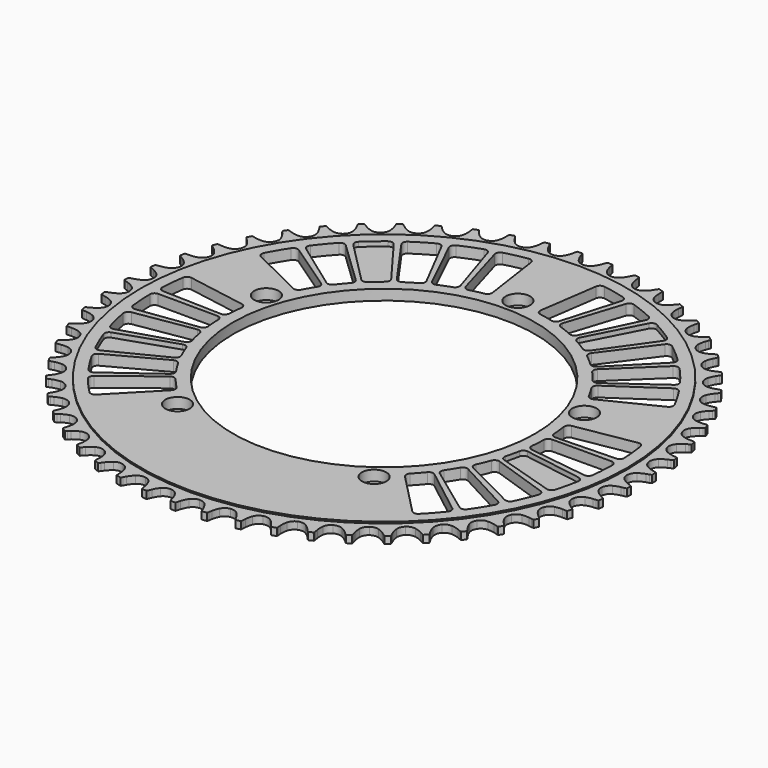
from build123d import *

# Parameters (mm, degrees)
F0_R     = 104.654542
F1_DEPTH = 1.58
F0_R_2   = 5.25
F0_R_3   = 64.999997
F2_DEPTH = 2.25
F4_DEPTH = 4.5
F5_DEPTH = 2
F6_R     = 2


with BuildPart() as f1:
    # F0 (on Top) → F1 (new body, symmetric)
    with BuildSketch(Plane.XY):
        with BuildLine():
            ThreePointArc((-3.244606, 108.80451), (-4.063278, 110.10593), (-4.680997, 111.513887))
            Line((-4.680997, 111.513887), (-5.067209, 112.628629))
            ThreePointArc((-5.067209, 112.628629), (-5.236912, 113.065922), (-5.4382, 113.489604))
            ThreePointArc((-5.4382, 113.489604), (-6.486421, 113.434521), (-7.534088, 113.369757))
            ThreePointArc((-7.534088, 113.369757), (-7.685768, 112.925891), (-7.804517, 112.472104))
            Line((-7.804517, 112.472104), (-8.061141, 111.320604))
            ThreePointArc((-8.061141, 111.320604), (-8.514337, 109.85141), (-9.179323, 108.465151))
            ThreePointArc((-9.179323, 108.465151), (-10.456264, 107.096888), (-12.214697, 106.45608))
            ThreePointArc((-12.214697, 106.45608), (-14.072573, 106.681955), (-15.626237, 107.725436))
            ThreePointArc((-15.626237, 107.725436), (-16.587923, 108.925052), (-17.36211, 110.253417))
            Line((-17.36211, 110.253417), (-17.872876, 111.316868))
            ThreePointArc((-17.872876, 111.316868), (-18.09132, 111.731965), (-18.339592, 112.129941))
            ThreePointArc((-18.339592, 112.129941), (-19.374701, 111.955729), (-20.408157, 111.771962))
            ThreePointArc((-20.408157, 111.771962), (-20.508251, 111.313699), (-20.574499, 110.849334))
            Line((-20.574499, 110.849334), (-20.698188, 109.676086))
            ThreePointArc((-20.698188, 109.676086), (-20.980956, 108.164808), (-21.483585, 106.711782))
            ThreePointArc((-21.483585, 106.711782), (-22.596232, 105.206878), (-24.270157, 104.369801))
            ThreePointArc((-24.270157, 104.369801), (-26.141671, 104.382421), (-27.804155, 105.241997))
            ThreePointArc((-27.804155, 105.241997), (-28.896319, 106.324169), (-29.816882, 107.555624))
            Line((-29.816882, 107.555624), (-30.445542, 108.553921))
            ThreePointArc((-30.445542, 108.553921), (-30.70988, 108.941412), (-31.0019, 109.308492))
            ThreePointArc((-31.0019, 109.308492), (-32.010403, 109.017422), (-33.016175, 108.717048))
            ThreePointArc((-33.016175, 108.717048), (-33.063379, 108.250362), (-33.07626, 107.781472))
            Line((-33.07626, 107.781472), (-33.065404, 106.601772))
            ThreePointArc((-33.065404, 106.601772), (-33.174055, 105.068112), (-33.507776, 103.567263))
            ThreePointArc((-33.507776, 103.567263), (-34.441624, 101.945335), (-36.009219, 100.922901))
            ThreePointArc((-36.009219, 100.922901), (-37.869972, 100.722103), (-39.619604, 101.386567))
            ThreePointArc((-39.619604, 101.386567), (-40.828007, 102.337188), (-41.882944, 103.45568))
            Line((-41.882944, 103.45568), (-42.621305, 104.375807))
            ThreePointArc((-42.621305, 104.375807), (-42.92809, 104.73064), (-43.26005, 105.062041))
            ThreePointArc((-43.26005, 105.062041), (-44.228801, 104.657907), (-45.193776, 104.244841))
            ThreePointArc((-45.193776, 104.244841), (-45.187474, 103.775817), (-45.146823, 103.308515))
            Line((-45.146823, 103.308515), (-45.001561, 102.137742))
            ThreePointArc((-45.001561, 102.137742), (-44.93468, 100.601693), (-45.095141, 99.072585))
            ThreePointArc((-45.095141, 99.072585), (-45.838017, 97.354779), (-47.278845, 96.160317))
            ThreePointArc((-47.278845, 96.160317), (-49.10458, 95.748718), (-50.91855, 96.209408))
            ThreePointArc((-50.91855, 96.209408), (-52.227439, 97.016085), (-53.402999, 98.007033))
            Line((-53.402999, 98.007033), (-54.241433, 98.836996))
            ThreePointArc((-54.241433, 98.836996), (-54.586667, 99.154545), (-54.95424, 99.445944))
            ThreePointArc((-54.95424, 99.445944), (-55.870608, 98.934016), (-56.782208, 98.413643))
            ThreePointArc((-56.782208, 98.413643), (-56.722482, 97.948394), (-56.628827, 97.488772))
            Line((-56.628827, 97.488772), (-56.351054, 96.342189))
            ThreePointArc((-56.351054, 96.342189), (-56.109513, 94.823777), (-56.094623, 93.286345))
            ThreePointArc((-56.094623, 93.286345), (-56.636841, 91.495055), (-57.932119, 90.144137))
            ThreePointArc((-57.932119, 90.144137), (-59.699035, 89.527102), (-61.553696, 89.778012))
            ThreePointArc((-61.553696, 89.778012), (-62.946007, 90.430229), (-64.226864, 91.280714))
            Line((-64.226864, 91.280714), (-65.154442, 92.009692))
            ThreePointArc((-65.154442, 92.009692), (-65.533623, 92.285818), (-65.932017, 92.533418))
            ThreePointArc((-65.932017, 92.533418), (-66.784057, 91.920368), (-67.630396, 91.299473))
            ThreePointArc((-67.630396, 91.299473), (-67.518025, 90.844065), (-67.372588, 90.398115))
            Line((-67.372588, 90.398115), (-66.965925, 89.290669))
            ThreePointArc((-66.965925, 89.290669), (-66.552872, 87.809688), (-66.362825, 86.283975))
            ThreePointArc((-66.362825, 86.283975), (-66.697318, 84.442552), (-67.830159, 82.95279))
            ThreePointArc((-67.830159, 82.95279), (-69.515221, 82.138364), (-71.386395, 82.176223))
            ThreePointArc((-71.386395, 82.176223), (-72.843978, 82.665477), (-74.213434, 83.364411))
            Line((-74.213434, 83.364411), (-75.218062, 83.982902))
            ThreePointArc((-75.218062, 83.982902), (-75.626248, 84.214005), (-76.050269, 84.414577))
            ThreePointArc((-76.050269, 84.414577), (-76.826873, 83.708398), (-77.596919, 82.995075))
            ThreePointArc((-77.596919, 82.995075), (-77.433368, 82.555445), (-77.238044, 82.12898))
            Line((-77.238044, 82.12898), (-76.707793, 81.075109))
            ThreePointArc((-76.707793, 81.075109), (-76.128613, 79.650866), (-75.765887, 78.156761))
            ThreePointArc((-75.765887, 78.156761), (-75.888293, 76.289212), (-76.84393, 74.680026))
            ThreePointArc((-76.84393, 74.680026), (-78.425171, 73.678826), (-80.288463, 73.503141))
            ThreePointArc((-80.288463, 73.503141), (-81.792316, 73.823053), (-83.232518, 74.361326))
            Line((-83.232518, 74.361326), (-84.3011, 74.861267))
            ThreePointArc((-84.3011, 74.861267), (-84.732969, 75.044333), (-85.17709, 75.195263))
            ThreePointArc((-85.17709, 75.195263), (-85.868133, 74.405161), (-86.551848, 73.608709))
            ThreePointArc((-86.551848, 73.608709), (-86.339248, 73.190588), (-86.096584, 72.789168))
            Line((-86.096584, 72.789168), (-85.449657, 71.802611))
            ThreePointArc((-85.449657, 71.802611), (-84.711901, 70.453672), (-84.181224, 69.010654))
            ThreePointArc((-84.181224, 69.010654), (-84.089947, 67.141325), (-84.855922, 65.433694))
            ThreePointArc((-84.855922, 65.433694), (-86.312728, 64.258772), (-88.143848, 63.871833))
            ThreePointArc((-88.143848, 63.871833), (-89.674366, 64.018234), (-91.166538, 64.388827))
            Line((-91.166538, 64.388827), (-92.285145, 64.7637))
            ThreePointArc((-92.285145, 64.7637), (-92.735066, 64.896343), (-93.193498, 64.995664))
            ThreePointArc((-93.193498, 64.995664), (-93.789971, 64.131939), (-94.37844, 63.26274))
            ThreePointArc((-94.37844, 63.26274), (-94.119565, 62.871579), (-93.832724, 62.500438))
            Line((-93.832724, 62.500438), (-93.077554, 61.594055))
            ThreePointArc((-93.077554, 61.594055), (-92.19084, 60.338007), (-91.49913, 58.964888))
            ThreePointArc((-91.49913, 58.964888), (-91.195361, 57.118149), (-91.761688, 55.334333))
            ThreePointArc((-91.761688, 55.334333), (-93.075067, 54.001007), (-94.850143, 53.407858))
            ThreePointArc((-94.850143, 53.407858), (-96.387373, 53.378839), (-97.912064, 53.576921))
            Line((-97.912064, 53.576921), (-99.066111, 53.821839))
            ThreePointArc((-99.066111, 53.821839), (-99.52822, 53.902331), (-99.994985, 53.948747))
            ThreePointArc((-99.994985, 53.948747), (-100.489114, 53.022659), (-100.974666, 52.092046))
            ThreePointArc((-100.974666, 52.092046), (-100.672888, 51.732944), (-100.34561, 51.396919))
            Line((-100.34561, 51.396919), (-99.492043, 50.582527))
            ThreePointArc((-99.492043, 50.582527), (-98.46793, 49.435744), (-97.624206, 48.150425))
            ThreePointArc((-97.624206, 48.150425), (-97.111904, 46.35035), (-97.4712, 44.513605))
            ThreePointArc((-97.4712, 44.513605), (-98.62403, 43.039256), (-100.319922, 42.247629))
            ThreePointArc((-100.319922, 42.247629), (-101.843824, 42.043569), (-103.381156, 42.066559))
            Line((-103.381156, 42.066559), (-104.5556, 42.178328))
            ThreePointArc((-104.5556, 42.178328), (-105.023872, 42.205619), (-105.492885, 42.198525))
            ThreePointArc((-105.492885, 42.198525), (-105.878227, 41.222147), (-106.254532, 40.242252))
            ThreePointArc((-106.254532, 40.242252), (-105.913787, 39.91989), (-105.550338, 39.623363))
            Line((-105.550338, 39.623363), (-104.609502, 38.911579))
            ThreePointArc((-104.609502, 38.911579), (-103.461341, 37.889011), (-102.4766, 36.708247))
            ThreePointArc((-102.4766, 36.708247), (-101.762445, 34.978303), (-101.910025, 33.112574))
            ThreePointArc((-101.910025, 33.112574), (-102.887278, 31.516423), (-104.481877, 30.536639))
            ThreePointArc((-104.481877, 30.536639), (-105.972585, 30.160196), (-107.502517, 30.007794))
            Line((-107.502517, 30.007794), (-108.682046, 29.984959))
            ThreePointArc((-108.682046, 29.984959), (-109.150376, 29.958692), (-109.615524, 29.898181))
            ThreePointArc((-109.615524, 29.898181), (-109.887055, 28.884242), (-110.149207, 27.867838))
            ThreePointArc((-110.149207, 27.867838), (-109.773937, 27.58642), (-109.379056, 27.333255))
            Line((-109.379056, 27.333255), (-108.363215, 26.733358))
            ThreePointArc((-108.363215, 26.733358), (-107.105974, 25.848336), (-105.993055, 24.78752))
            ThreePointArc((-105.993055, 24.78752), (-105.086356, 23.150261), (-105.020298, 21.27987))
            ThreePointArc((-105.020298, 21.27987), (-105.809233, 19.582724), (-107.281751, 18.427557))
            ThreePointArc((-107.281751, 18.427557), (-108.719831, 17.88364), (-110.222418, 17.557832))
            Line((-110.222418, 17.557832), (-111.391655, 17.400689))
            ThreePointArc((-111.391655, 17.400689), (-111.853939, 17.321208), (-112.309157, 17.208069))
            ThreePointArc((-112.309157, 17.208069), (-112.463338, 16.169787), (-112.60792, 15.130125))
            ThreePointArc((-112.60792, 15.130125), (-112.203017, 14.893318), (-111.781851, 14.686817))
            Line((-111.781851, 14.686817), (-110.704248, 14.206627))
            ThreePointArc((-110.704248, 14.206627), (-109.354317, 13.470689), (-108.127729, 12.543651))
            ThreePointArc((-108.127729, 12.543651), (-107.040306, 11.020419), (-106.76147, 9.169751))
            ThreePointArc((-106.76147, 9.169751), (-107.351802, 7.393735), (-108.683043, 6.078243))
            ThreePointArc((-108.683043, 6.078243), (-110.049747, 5.373943), (-111.505401, 4.878976))
            Line((-111.505401, 4.878976), (-112.649104, 4.589575))
            ThreePointArc((-112.649104, 4.589575), (-113.099314, 4.457916), (-113.538668, 4.293623))
            ThreePointArc((-113.538668, 4.293623), (-113.573489, 3.244533), (-113.598616, 2.195167))
            ThreePointArc((-113.598616, 2.195167), (-113.169358, 2.00606), (-112.727398, 1.848914))
            Line((-112.727398, 1.848914), (-111.602082, 1.494692))
            ThreePointArc((-111.602082, 1.494692), (-110.17706, 0.917431), (-108.852792, 0.136256))
            ThreePointArc((-108.852792, 0.136256), (-107.598822, -1.25309), (-107.110843, -3.059911))
            ThreePointArc((-107.110843, -3.059911), (-107.494877, -4.891642), (-108.667486, -6.35031))
            ThreePointArc((-108.667486, -6.35031), (-109.944997, -7.205812), (-111.33474, -7.863484))
            Line((-111.33474, -7.863484), (-112.437999, -8.281371))
            ThreePointArc((-112.437999, -8.281371), (-112.870267, -8.463492), (-113.288029, -8.676797))
            ThreePointArc((-113.288029, -8.676797), (-113.203035, -9.723017), (-113.10838, -10.768408))
            ThreePointArc((-113.10838, -10.768408), (-112.660364, -10.907351), (-112.203371, -11.013093))
            Line((-112.203371, -11.013093), (-111.045012, -11.23673))
            ThreePointArc((-111.045012, -11.23673), (-109.563476, -11.647788), (-108.158793, -12.272915))
            ThreePointArc((-108.158793, -12.272915), (-106.754623, -13.510264), (-106.063863, -15.249681))
            ThreePointArc((-106.063863, -15.249681), (-106.236592, -17.11325), (-107.235282, -18.696077))
            ThreePointArc((-107.235282, -18.696077), (-108.406946, -19.691628), (-109.712661, -20.503432))
            Line((-109.712661, -20.503432), (-110.761093, -21.044357))
            ThreePointArc((-110.761093, -21.044357), (-111.169784, -21.274566), (-111.560507, -21.534101))
            ThreePointArc((-111.560507, -21.534101), (-111.356808, -22.563814), (-111.143604, -23.591601))
            ThreePointArc((-111.143604, -23.591601), (-110.68267, -23.678568), (-110.216602, -23.731527))
            Line((-110.216602, -23.731527), (-109.0403, -23.821663))
            ThreePointArc((-109.0403, -23.821663), (-107.521564, -24.061159), (-106.054778, -24.522091))
            ThreePointArc((-106.054778, -24.522091), (-104.518714, -25.59131), (-103.634178, -27.240649))
            ThreePointArc((-103.634178, -27.240649), (-103.59335, -29.11176), (-104.405101, -30.798112))
            ThreePointArc((-104.405101, -30.798112), (-105.455644, -31.920733), (-106.66031, -32.876086))
            Line((-106.66031, -32.876086), (-107.640247, -33.532998))
            ThreePointArc((-107.640247, -33.532998), (-108.020032, -33.808293), (-108.378624, -34.110676))
            ThreePointArc((-108.378624, -34.110676), (-108.058874, -35.110456), (-107.729901, -36.10724))
            ThreePointArc((-107.729901, -36.10724), (-107.262057, -36.141098), (-106.792991, -36.140585))
            Line((-106.792991, -36.140585), (-105.614082, -36.096045))
            ThreePointArc((-105.614082, -36.096045), (-104.077945, -36.160857), (-102.568177, -36.451583))
            ThreePointArc((-102.568177, -36.451583), (-100.920244, -37.338735), (-99.853463, -38.876493))
            ThreePointArc((-99.853463, -38.876493), (-99.599611, -40.730754), (-100.213841, -42.498647))
            ThreePointArc((-100.213841, -42.498647), (-101.129567, -43.733703), (-102.217479, -44.82015))
            Line((-102.217479, -44.82015), (-103.116146, -45.584484))
            ThreePointArc((-103.116146, -45.584484), (-103.462074, -45.901277), (-103.783859, -46.242565))
            ThreePointArc((-103.783859, -46.242565), (-103.352227, -47.19938), (-102.911773, -48.152167))
            ThreePointArc((-102.911773, -48.152167), (-102.44312, -48.132474), (-101.97717, -48.078495))
            Line((-101.97717, -48.078495), (-100.811022, -47.89986))
            ThreePointArc((-100.811022, -47.89986), (-99.27751, -47.789143), (-97.744444, -47.905873))
            ThreePointArc((-97.744444, -47.905873), (-96.006124, -48.599392), (-94.771006, -50.005523))
            ThreePointArc((-94.771006, -50.005523), (-94.307438, -51.81876), (-94.71614, -53.645146))
            ThreePointArc((-94.71614, -53.645146), (-95.485112, -54.976537), (-96.442086, -56.179915))
            Line((-96.442086, -56.179915), (-97.247768, -57.041707))
            ThreePointArc((-97.247768, -57.041707), (-97.555329, -57.395868), (-97.836113, -57.771613))
            ThreePointArc((-97.836113, -57.771613), (-97.298226, -58.672988), (-96.752034, -59.569357))
            ThreePointArc((-96.752034, -59.569357), (-96.28868, -59.496369), (-95.83192, -59.389628))
            Line((-95.83192, -59.389628), (-94.693737, -59.079226))
            ThreePointArc((-94.693737, -59.079226), (-93.182841, -58.794424), (-91.646461, -58.735637))
            ThreePointArc((-91.646461, -58.735637), (-89.840418, -59.226482), (-88.453063, -60.482655))
            ThreePointArc((-88.453063, -60.482655), (-87.785824, -62.23123), (-87.98367, -64.092299))
            ThreePointArc((-87.98367, -64.092299), (-88.595861, -65.502668), (-89.409423, -66.807289))
            Line((-89.409423, -66.807289), (-90.111617, -67.755305))
            ThreePointArc((-90.111617, -67.755305), (-90.376802, -68.142216), (-90.612924, -68.547518))
            ThreePointArc((-90.612924, -68.547518), (-89.975793, -69.381704), (-89.330984, -70.209969))
            ThreePointArc((-89.330984, -70.209969), (-88.87897, -70.084639), (-88.437355, -69.926526))
            Line((-88.437355, -69.926526), (-87.341974, -69.488405))
            ThreePointArc((-87.341974, -69.488405), (-85.873391, -69.03323), (-84.353728, -68.799692))
            ThreePointArc((-84.353728, -68.799692), (-82.503504, -69.081464), (-80.981999, -70.171302))
            ThreePointArc((-80.981999, -70.171302), (-80.119787, -71.83242), (-80.104197, -73.703911))
            ThreePointArc((-80.104197, -73.703911), (-80.551629, -75.174871), (-81.211172, -76.563727))
            Line((-81.211172, -76.563727), (-81.800723, -77.585608))
            ThreePointArc((-81.800723, -77.585608), (-82.020074, -78.000226), (-82.208457, -78.429803))
            ThreePointArc((-82.208457, -78.429803), (-81.480389, -79.185924), (-80.745367, -79.935286))
            ThreePointArc((-80.745367, -79.935286), (-80.310587, -79.759248), (-79.889873, -79.551825))
            Line((-79.889873, -79.551825), (-78.851574, -78.991696))
            ThreePointArc((-78.851574, -78.991696), (-77.444451, -78.372082), (-75.961314, -77.966837))
            ThreePointArc((-75.961314, -77.966837), (-74.091031, -78.035863), (-72.455212, -78.945159))
            ThreePointArc((-72.455212, -78.945159), (-71.409266, -80.497165), (-71.180444, -82.35468))
            ThreePointArc((-71.180444, -82.35468), (-71.457282, -83.867055), (-71.954209, -85.322041))
            Line((-71.954209, -85.322041), (-72.423431, -86.404464))
            ThreePointArc((-72.423431, -86.404464), (-72.59409, -86.841384), (-72.732277, -87.289634))
            ThreePointArc((-72.732277, -87.289634), (-71.922763, -87.957833), (-71.107112, -88.618525))
            ThreePointArc((-71.107112, -88.618525), (-70.695232, -88.394073), (-70.300905, -88.140045))
            Line((-70.300905, -88.140045), (-69.333224, -87.465209))
            ThreePointArc((-69.333224, -87.465209), (-68.005903, -86.689234), (-66.578628, -86.117566))
            ThreePointArc((-66.578628, -86.117566), (-64.712668, -85.972946), (-62.983859, -86.689845))
            ThreePointArc((-62.983859, -86.689845), (-61.767816, -88.112506), (-61.328745, -89.93183))
            ThreePointArc((-61.328745, -89.93183), (-61.431381, -91.465904), (-61.759212, -92.968051))
            Line((-61.759212, -92.968051), (-62.101989, -94.096906))
            ThreePointArc((-62.101989, -94.096906), (-62.221731, -94.550432), (-62.30792, -95.011512))
            ThreePointArc((-62.30792, -95.011512), (-61.427514, -95.583078), (-60.541866, -96.146486))
            ThreePointArc((-60.541866, -96.146486), (-60.158257, -95.876546), (-59.795458, -95.579224))
            Line((-59.795458, -95.579224), (-58.911009, -94.79848))
            ThreePointArc((-58.911009, -94.79848), (-57.680795, -93.876259), (-56.327988, -93.145621))
            ThreePointArc((-56.327988, -93.145621), (-54.490676, -92.78924), (-52.691416, -93.304397))
            ThreePointArc((-52.691416, -93.304397), (-51.321129, -94.579166), (-50.677532, -96.33658))
            ThreePointArc((-50.677532, -96.33658), (-50.604627, -97.872355), (-50.75909, -99.40208))
            Line((-50.75909, -99.40208), (-50.970953, -100.562651))
            ThreePointArc((-50.970953, -100.562651), (-51.038216, -101.02687), (-51.071284, -101.49477))
            ThreePointArc((-51.071284, -101.49477), (-50.131464, -101.962251), (-49.187365, -102.42103))
            ThreePointArc((-49.187365, -102.42103), (-48.837027, -102.109122), (-48.510484, -101.772382))
            Line((-48.510484, -101.772382), (-47.7208, -100.895907))
            ThreePointArc((-47.7208, -100.895907), (-46.603729, -99.839464), (-45.343027, -98.95938))
            ThreePointArc((-45.343027, -98.95938), (-43.558315, -98.395884), (-41.71206, -98.702583))
            ThreePointArc((-41.71206, -98.702583), (-40.205392, -99.812841), (-39.36566, -101.485436))
            ThreePointArc((-39.36566, -101.485436), (-39.118165, -103.00289), (-39.097246, -104.540251))
            Line((-39.097246, -104.540251), (-39.175433, -105.717407))
            ThreePointArc((-39.175433, -105.717407), (-39.18934, -106.186268), (-39.168856, -106.654887))
            ThreePointArc((-39.168856, -106.654887), (-38.181873, -107.01219), (-37.191631, -107.36036))
            ThreePointArc((-37.191631, -107.36036), (-36.879131, -107.010549), (-36.593103, -106.638781))
            Line((-36.593103, -106.638781), (-35.908476, -105.678002))
            ThreePointArc((-35.908476, -105.678002), (-34.919112, -104.501109), (-33.76695, -103.483052))
            ThreePointArc((-33.76695, -103.483052), (-32.058105, -102.719787), (-30.188923, -102.81403))
            ThreePointArc((-30.188923, -102.81403), (-28.565516, -103.745304), (-27.540596, -105.311274))
            ThreePointArc((-27.540596, -105.311274), (-27.121738, -106.790624), (-26.925709, -108.31558))
            Line((-26.925709, -108.31558), (-26.8692, -109.493976))
            ThreePointArc((-26.8692, -109.493976), (-26.829571, -109.961366), (-26.755802, -110.424596))
            ThreePointArc((-26.755802, -110.424596), (-25.734523, -110.667062), (-24.711047, -110.900083))
            ThreePointArc((-24.711047, -110.900083), (-24.44046, -110.51693), (-24.198675, -110.11498))
            Line((-24.198675, -110.11498), (-23.628031, -109.082423))
            ThreePointArc((-23.628031, -109.082423), (-22.779272, -107.800422), (-21.750669, -106.657664))
            ThreePointArc((-21.750669, -106.657664), (-20.139968, -105.704581), (-18.272227, -105.585139))
            ThreePointArc((-18.272227, -105.585139), (-16.553245, -106.325288), (-15.356498, -107.764219))
            ThreePointArc((-15.356498, -107.764219), (-14.771738, -109.18618), (-14.403155, -110.67885))
            Line((-14.403155, -110.67885), (-14.212687, -111.843124))
            ThreePointArc((-14.212687, -111.843124), (-14.120038, -112.302949), (-13.993945, -112.754751))
            ThreePointArc((-13.993945, -112.754751), (-12.951684, -112.879219), (-11.908317, -112.994054))
            ThreePointArc((-11.908317, -112.994054), (-11.68317, -112.582554), (-11.488779, -112.155663))
            Line((-11.488779, -112.155663), (-11.039558, -111.064787))
            ThreePointArc((-11.039558, -111.064787), (-10.342468, -109.694391), (-9.450835, -108.441831))
            ThreePointArc((-9.450835, -108.441831), (-7.959277, -107.311354), (-6.117325, -106.979784))
            ThreePointArc((-6.117325, -106.979784), (-4.325177, -107.519159), (-2.972206, -108.812292))
            ThreePointArc((-2.972206, -108.812292), (-2.229165, -110.158327), (-1.692833, -111.599252))
            Line((-1.692833, -111.599252), (-1.37089, -112.734225))
            ThreePointArc((-1.37089, -112.734225), (-1.226428, -113.180492), (-1.049656, -113.614975))
            ThreePointArc((-1.049656, -113.614975), (0, -113.619824), (1.049656, -113.614975))
            ThreePointArc((1.049656, -113.614975), (1.226428, -113.180492), (1.37089, -112.734225))
            Line((1.37089, -112.734225), (1.692833, -111.599252))
            ThreePointArc((1.692833, -111.599252), (2.229165, -110.158327), (2.972206, -108.812292))
            ThreePointArc((2.972206, -108.812292), (4.325177, -107.519159), (6.117325, -106.979784))
            ThreePointArc((6.117325, -106.979784), (7.959277, -107.311354), (9.450835, -108.441831))
            ThreePointArc((9.450835, -108.441831), (10.342468, -109.694391), (11.039558, -111.064787))
            Line((11.039558, -111.064787), (11.488779, -112.155663))
            ThreePointArc((11.488779, -112.155663), (11.68317, -112.582554), (11.908317, -112.994054))
            ThreePointArc((11.908317, -112.994054), (12.951684, -112.879219), (13.993945, -112.754751))
            ThreePointArc((13.993945, -112.754751), (14.120038, -112.302949), (14.212687, -111.843124))
            Line((14.212687, -111.843124), (14.403155, -110.67885))
            ThreePointArc((14.403155, -110.67885), (14.771738, -109.18618), (15.356498, -107.764219))
            ThreePointArc((15.356498, -107.764219), (16.553245, -106.325288), (18.272227, -105.585139))
            ThreePointArc((18.272227, -105.585139), (20.139968, -105.704581), (21.750669, -106.657664))
            ThreePointArc((21.750669, -106.657664), (22.779272, -107.800422), (23.628031, -109.082423))
            Line((23.628031, -109.082423), (24.198675, -110.11498))
            ThreePointArc((24.198675, -110.11498), (24.44046, -110.51693), (24.711047, -110.900083))
            ThreePointArc((24.711047, -110.900083), (25.734523, -110.667062), (26.755802, -110.424596))
            ThreePointArc((26.755802, -110.424596), (26.829571, -109.961366), (26.8692, -109.493976))
            Line((26.8692, -109.493976), (26.925709, -108.31558))
            ThreePointArc((26.925709, -108.31558), (27.121738, -106.790624), (27.540596, -105.311274))
            ThreePointArc((27.540596, -105.311274), (28.565516, -103.745304), (30.188923, -102.81403))
            ThreePointArc((30.188923, -102.81403), (32.058105, -102.719787), (33.76695, -103.483052))
            ThreePointArc((33.76695, -103.483052), (34.919112, -104.501109), (35.908476, -105.678002))
            Line((35.908476, -105.678002), (36.593103, -106.638781))
            ThreePointArc((36.593103, -106.638781), (36.879131, -107.010549), (37.191631, -107.36036))
            ThreePointArc((37.191631, -107.36036), (38.181873, -107.01219), (39.168856, -106.654887))
            ThreePointArc((39.168856, -106.654887), (39.18934, -106.186268), (39.175433, -105.717407))
            Line((39.175433, -105.717407), (39.097246, -104.540251))
            ThreePointArc((39.097246, -104.540251), (39.118165, -103.00289), (39.36566, -101.485436))
            ThreePointArc((39.36566, -101.485436), (40.205392, -99.812841), (41.71206, -98.702583))
            ThreePointArc((41.71206, -98.702583), (43.558315, -98.395884), (45.343027, -98.95938))
            ThreePointArc((45.343027, -98.95938), (46.603729, -99.839464), (47.7208, -100.895907))
            Line((47.7208, -100.895907), (48.510484, -101.772382))
            ThreePointArc((48.510484, -101.772382), (48.837027, -102.109122), (49.187365, -102.42103))
            ThreePointArc((49.187365, -102.42103), (50.131464, -101.962251), (51.071284, -101.49477))
            ThreePointArc((51.071284, -101.49477), (51.038216, -101.02687), (50.970953, -100.562651))
            Line((50.970953, -100.562651), (50.75909, -99.40208))
            ThreePointArc((50.75909, -99.40208), (50.604627, -97.872355), (50.677532, -96.33658))
            ThreePointArc((50.677532, -96.33658), (51.321129, -94.579166), (52.691416, -93.304397))
            ThreePointArc((52.691416, -93.304397), (54.490676, -92.78924), (56.327988, -93.145621))
            ThreePointArc((56.327988, -93.145621), (57.680795, -93.876259), (58.911009, -94.79848))
            Line((58.911009, -94.79848), (59.795458, -95.579224))
            ThreePointArc((59.795458, -95.579224), (60.158257, -95.876546), (60.541866, -96.146486))
            ThreePointArc((60.541866, -96.146486), (61.427514, -95.583078), (62.30792, -95.011512))
            ThreePointArc((62.30792, -95.011512), (62.221731, -94.550432), (62.101989, -94.096906))
            Line((62.101989, -94.096906), (61.759212, -92.968051))
            ThreePointArc((61.759212, -92.968051), (61.431381, -91.465904), (61.328745, -89.93183))
            ThreePointArc((61.328745, -89.93183), (61.767816, -88.112506), (62.983859, -86.689845))
            ThreePointArc((62.983859, -86.689845), (64.712668, -85.972946), (66.578628, -86.117566))
            ThreePointArc((66.578628, -86.117566), (68.005903, -86.689234), (69.333224, -87.465209))
            Line((69.333224, -87.465209), (70.300905, -88.140045))
            ThreePointArc((70.300905, -88.140045), (70.695232, -88.394073), (71.107112, -88.618525))
            ThreePointArc((71.107112, -88.618525), (71.922763, -87.957833), (72.732277, -87.289634))
            ThreePointArc((72.732277, -87.289634), (72.59409, -86.841384), (72.423431, -86.404464))
            Line((72.423431, -86.404464), (71.954209, -85.322041))
            ThreePointArc((71.954209, -85.322041), (71.457282, -83.867055), (71.180444, -82.35468))
            ThreePointArc((71.180444, -82.35468), (71.409266, -80.497165), (72.455212, -78.945159))
            ThreePointArc((72.455212, -78.945159), (74.091031, -78.035863), (75.961314, -77.966837))
            ThreePointArc((75.961314, -77.966837), (77.444451, -78.372082), (78.851574, -78.991696))
            Line((78.851574, -78.991696), (79.889873, -79.551825))
            ThreePointArc((79.889873, -79.551825), (80.310587, -79.759248), (80.745367, -79.935286))
            ThreePointArc((80.745367, -79.935286), (81.480389, -79.185924), (82.208457, -78.429803))
            ThreePointArc((82.208457, -78.429803), (82.020074, -78.000226), (81.800723, -77.585608))
            Line((81.800723, -77.585608), (81.211172, -76.563727))
            ThreePointArc((81.211172, -76.563727), (80.551629, -75.174871), (80.104197, -73.703911))
            ThreePointArc((80.104197, -73.703911), (80.119787, -71.83242), (80.981999, -70.171302))
            ThreePointArc((80.981999, -70.171302), (82.503504, -69.081464), (84.353728, -68.799692))
            ThreePointArc((84.353728, -68.799692), (85.873391, -69.03323), (87.341974, -69.488405))
            Line((87.341974, -69.488405), (88.437355, -69.926526))
            ThreePointArc((88.437355, -69.926526), (88.87897, -70.084639), (89.330984, -70.209969))
            ThreePointArc((89.330984, -70.209969), (89.975793, -69.381704), (90.612924, -68.547518))
            ThreePointArc((90.612924, -68.547518), (90.376802, -68.142216), (90.111617, -67.755305))
            Line((90.111617, -67.755305), (89.409423, -66.807289))
            ThreePointArc((89.409423, -66.807289), (88.595861, -65.502668), (87.98367, -64.092299))
            ThreePointArc((87.98367, -64.092299), (87.785824, -62.23123), (88.453063, -60.482655))
            ThreePointArc((88.453063, -60.482655), (89.840418, -59.226482), (91.646461, -58.735637))
            ThreePointArc((91.646461, -58.735637), (93.182841, -58.794424), (94.693737, -59.079226))
            Line((94.693737, -59.079226), (95.83192, -59.389628))
            ThreePointArc((95.83192, -59.389628), (96.28868, -59.496369), (96.752034, -59.569357))
            ThreePointArc((96.752034, -59.569357), (97.298226, -58.672988), (97.836113, -57.771613))
            ThreePointArc((97.836113, -57.771613), (97.555329, -57.395868), (97.247768, -57.041707))
            Line((97.247768, -57.041707), (96.442086, -56.179915))
            ThreePointArc((96.442086, -56.179915), (95.485112, -54.976537), (94.71614, -53.645146))
            ThreePointArc((94.71614, -53.645146), (94.307438, -51.81876), (94.771006, -50.005523))
            ThreePointArc((94.771006, -50.005523), (96.006124, -48.599392), (97.744444, -47.905873))
            ThreePointArc((97.744444, -47.905873), (99.27751, -47.789143), (100.811022, -47.89986))
            Line((100.811022, -47.89986), (101.97717, -48.078495))
            ThreePointArc((101.97717, -48.078495), (102.44312, -48.132474), (102.911773, -48.152167))
            ThreePointArc((102.911773, -48.152167), (103.352227, -47.19938), (103.783859, -46.242565))
            ThreePointArc((103.783859, -46.242565), (103.462074, -45.901277), (103.116146, -45.584484))
            Line((103.116146, -45.584484), (102.217479, -44.82015))
            ThreePointArc((102.217479, -44.82015), (101.129567, -43.733703), (100.213841, -42.498647))
            ThreePointArc((100.213841, -42.498647), (99.599611, -40.730754), (99.853463, -38.876493))
            ThreePointArc((99.853463, -38.876493), (100.920244, -37.338735), (102.568177, -36.451583))
            ThreePointArc((102.568177, -36.451583), (104.077945, -36.160857), (105.614082, -36.096045))
            Line((105.614082, -36.096045), (106.792991, -36.140585))
            ThreePointArc((106.792991, -36.140585), (107.262057, -36.141098), (107.729901, -36.10724))
            ThreePointArc((107.729901, -36.10724), (108.058874, -35.110456), (108.378624, -34.110676))
            ThreePointArc((108.378624, -34.110676), (108.020032, -33.808293), (107.640247, -33.532998))
            Line((107.640247, -33.532998), (106.66031, -32.876086))
            ThreePointArc((106.66031, -32.876086), (105.455644, -31.920733), (104.405101, -30.798112))
            ThreePointArc((104.405101, -30.798112), (103.59335, -29.11176), (103.634178, -27.240649))
            ThreePointArc((103.634178, -27.240649), (104.518714, -25.59131), (106.054778, -24.522091))
            ThreePointArc((106.054778, -24.522091), (107.521564, -24.061159), (109.0403, -23.821663))
            Line((109.0403, -23.821663), (110.216602, -23.731527))
            ThreePointArc((110.216602, -23.731527), (110.68267, -23.678568), (111.143604, -23.591601))
            ThreePointArc((111.143604, -23.591601), (111.356808, -22.563814), (111.560507, -21.534101))
            ThreePointArc((111.560507, -21.534101), (111.169784, -21.274566), (110.761093, -21.044357))
            Line((110.761093, -21.044357), (109.712661, -20.503432))
            ThreePointArc((109.712661, -20.503432), (108.406946, -19.691628), (107.235282, -18.696077))
            ThreePointArc((107.235282, -18.696077), (106.236592, -17.11325), (106.063863, -15.249681))
            ThreePointArc((106.063863, -15.249681), (106.754623, -13.510264), (108.158793, -12.272915))
            ThreePointArc((108.158793, -12.272915), (109.563476, -11.647788), (111.045012, -11.23673))
            Line((111.045012, -11.23673), (112.203371, -11.013093))
            ThreePointArc((112.203371, -11.013093), (112.660364, -10.907351), (113.10838, -10.768408))
            ThreePointArc((113.10838, -10.768408), (113.203035, -9.723017), (113.288029, -8.676797))
            ThreePointArc((113.288029, -8.676797), (112.870267, -8.463492), (112.437999, -8.281371))
            Line((112.437999, -8.281371), (111.33474, -7.863484))
            ThreePointArc((111.33474, -7.863484), (109.944997, -7.205812), (108.667486, -6.35031))
            ThreePointArc((108.667486, -6.35031), (107.494877, -4.891642), (107.110843, -3.059911))
            ThreePointArc((107.110843, -3.059911), (107.598822, -1.25309), (108.852792, 0.136256))
            ThreePointArc((108.852792, 0.136256), (110.17706, 0.917431), (111.602082, 1.494692))
            Line((111.602082, 1.494692), (112.727398, 1.848914))
            ThreePointArc((112.727398, 1.848914), (113.169358, 2.00606), (113.598616, 2.195167))
            ThreePointArc((113.598616, 2.195167), (113.573489, 3.244533), (113.538668, 4.293623))
            ThreePointArc((113.538668, 4.293623), (113.099314, 4.457916), (112.649104, 4.589575))
            Line((112.649104, 4.589575), (111.505401, 4.878976))
            ThreePointArc((111.505401, 4.878976), (110.049747, 5.373943), (108.683043, 6.078243))
            ThreePointArc((108.683043, 6.078243), (107.351802, 7.393735), (106.76147, 9.169751))
            ThreePointArc((106.76147, 9.169751), (107.040306, 11.020419), (108.127729, 12.543651))
            ThreePointArc((108.127729, 12.543651), (109.354317, 13.470689), (110.704248, 14.206627))
            Line((110.704248, 14.206627), (111.781851, 14.686817))
            ThreePointArc((111.781851, 14.686817), (112.203017, 14.893318), (112.60792, 15.130125))
            ThreePointArc((112.60792, 15.130125), (112.463338, 16.169787), (112.309157, 17.208069))
            ThreePointArc((112.309157, 17.208069), (111.853939, 17.321208), (111.391655, 17.400689))
            Line((111.391655, 17.400689), (110.222418, 17.557832))
            ThreePointArc((110.222418, 17.557832), (108.719831, 17.88364), (107.281751, 18.427557))
            ThreePointArc((107.281751, 18.427557), (105.809233, 19.582724), (105.020298, 21.27987))
            ThreePointArc((105.020298, 21.27987), (105.086356, 23.150261), (105.993055, 24.78752))
            ThreePointArc((105.993055, 24.78752), (107.105974, 25.848336), (108.363215, 26.733358))
            Line((108.363215, 26.733358), (109.379056, 27.333255))
            ThreePointArc((109.379056, 27.333255), (109.773937, 27.58642), (110.149207, 27.867838))
            ThreePointArc((110.149207, 27.867838), (109.887055, 28.884242), (109.615524, 29.898181))
            ThreePointArc((109.615524, 29.898181), (109.150376, 29.958692), (108.682046, 29.984959))
            Line((108.682046, 29.984959), (107.502517, 30.007794))
            ThreePointArc((107.502517, 30.007794), (105.972585, 30.160196), (104.481877, 30.536639))
            ThreePointArc((104.481877, 30.536639), (102.887278, 31.516423), (101.910025, 33.112574))
            ThreePointArc((101.910025, 33.112574), (101.762445, 34.978303), (102.4766, 36.708247))
            ThreePointArc((102.4766, 36.708247), (103.461341, 37.889011), (104.609502, 38.911579))
            Line((104.609502, 38.911579), (105.550338, 39.623363))
            ThreePointArc((105.550338, 39.623363), (105.913787, 39.91989), (106.254532, 40.242252))
            ThreePointArc((106.254532, 40.242252), (105.878227, 41.222147), (105.492885, 42.198525))
            ThreePointArc((105.492885, 42.198525), (105.023872, 42.205619), (104.5556, 42.178328))
            Line((104.5556, 42.178328), (103.381156, 42.066559))
            ThreePointArc((103.381156, 42.066559), (101.843824, 42.043569), (100.319922, 42.247629))
            ThreePointArc((100.319922, 42.247629), (98.62403, 43.039256), (97.4712, 44.513605))
            ThreePointArc((97.4712, 44.513605), (97.111904, 46.35035), (97.624206, 48.150425))
            ThreePointArc((97.624206, 48.150425), (98.46793, 49.435744), (99.492043, 50.582527))
            Line((99.492043, 50.582527), (100.34561, 51.396919))
            ThreePointArc((100.34561, 51.396919), (100.672888, 51.732944), (100.974666, 52.092046))
            ThreePointArc((100.974666, 52.092046), (100.489114, 53.022659), (99.994985, 53.948747))
            ThreePointArc((99.994985, 53.948747), (99.52822, 53.902331), (99.066111, 53.821839))
            Line((99.066111, 53.821839), (97.912064, 53.576921))
            ThreePointArc((97.912064, 53.576921), (96.387373, 53.378839), (94.850143, 53.407858))
            ThreePointArc((94.850143, 53.407858), (93.075067, 54.001007), (91.761688, 55.334333))
            ThreePointArc((91.761688, 55.334333), (91.195361, 57.118149), (91.49913, 58.964888))
            ThreePointArc((91.49913, 58.964888), (92.19084, 60.338007), (93.077554, 61.594055))
            Line((93.077554, 61.594055), (93.832724, 62.500438))
            ThreePointArc((93.832724, 62.500438), (94.119565, 62.871579), (94.37844, 63.26274))
            ThreePointArc((94.37844, 63.26274), (93.789971, 64.131939), (93.193498, 64.995664))
            ThreePointArc((93.193498, 64.995664), (92.735066, 64.896343), (92.285145, 64.7637))
            Line((92.285145, 64.7637), (91.166538, 64.388827))
            ThreePointArc((91.166538, 64.388827), (89.674366, 64.018234), (88.143848, 63.871833))
            ThreePointArc((88.143848, 63.871833), (86.312728, 64.258772), (84.855922, 65.433694))
            ThreePointArc((84.855922, 65.433694), (84.089947, 67.141325), (84.181224, 69.010654))
            ThreePointArc((84.181224, 69.010654), (84.711901, 70.453672), (85.449657, 71.802611))
            Line((85.449657, 71.802611), (86.096584, 72.789168))
            ThreePointArc((86.096584, 72.789168), (86.339248, 73.190588), (86.551848, 73.608709))
            ThreePointArc((86.551848, 73.608709), (85.868133, 74.405161), (85.17709, 75.195263))
            ThreePointArc((85.17709, 75.195263), (84.732969, 75.044333), (84.3011, 74.861267))
            Line((84.3011, 74.861267), (83.232518, 74.361326))
            ThreePointArc((83.232518, 74.361326), (81.792316, 73.823053), (80.288463, 73.503141))
            ThreePointArc((80.288463, 73.503141), (78.425171, 73.678826), (76.84393, 74.680026))
            ThreePointArc((76.84393, 74.680026), (75.888293, 76.289212), (75.765887, 78.156761))
            ThreePointArc((75.765887, 78.156761), (76.128613, 79.650866), (76.707793, 81.075109))
            Line((76.707793, 81.075109), (77.238044, 82.12898))
            ThreePointArc((77.238044, 82.12898), (77.433368, 82.555445), (77.596919, 82.995075))
            ThreePointArc((77.596919, 82.995075), (76.826873, 83.708398), (76.050269, 84.414577))
            ThreePointArc((76.050269, 84.414577), (75.626248, 84.214005), (75.218062, 83.982902))
            Line((75.218062, 83.982902), (74.213434, 83.364411))
            ThreePointArc((74.213434, 83.364411), (72.843978, 82.665477), (71.386395, 82.176223))
            ThreePointArc((71.386395, 82.176223), (69.515221, 82.138364), (67.830159, 82.95279))
            ThreePointArc((67.830159, 82.95279), (66.697318, 84.442552), (66.362825, 86.283975))
            ThreePointArc((66.362825, 86.283975), (66.552872, 87.809688), (66.965925, 89.290669))
            Line((66.965925, 89.290669), (67.372588, 90.398115))
            ThreePointArc((67.372588, 90.398115), (67.518025, 90.844065), (67.630396, 91.299473))
            ThreePointArc((67.630396, 91.299473), (66.784057, 91.920368), (65.932017, 92.533418))
            ThreePointArc((65.932017, 92.533418), (65.533623, 92.285818), (65.154442, 92.009692))
            Line((65.154442, 92.009692), (64.226864, 91.280714))
            ThreePointArc((64.226864, 91.280714), (62.946007, 90.430229), (61.553696, 89.778012))
            ThreePointArc((61.553696, 89.778012), (59.699035, 89.527102), (57.932119, 90.144137))
            ThreePointArc((57.932119, 90.144137), (56.636841, 91.495055), (56.094623, 93.286345))
            ThreePointArc((56.094623, 93.286345), (56.109513, 94.823777), (56.351054, 96.342189))
            Line((56.351054, 96.342189), (56.628827, 97.488772))
            ThreePointArc((56.628827, 97.488772), (56.722482, 97.948394), (56.782208, 98.413643))
            ThreePointArc((56.782208, 98.413643), (55.870608, 98.934016), (54.95424, 99.445944))
            ThreePointArc((54.95424, 99.445944), (54.586667, 99.154545), (54.241433, 98.836996))
            Line((54.241433, 98.836996), (53.402999, 98.007033))
            ThreePointArc((53.402999, 98.007033), (52.227439, 97.016085), (50.91855, 96.209408))
            ThreePointArc((50.91855, 96.209408), (49.10458, 95.748718), (47.278845, 96.160317))
            ThreePointArc((47.278845, 96.160317), (45.838017, 97.354779), (45.095141, 99.072585))
            ThreePointArc((45.095141, 99.072585), (44.93468, 100.601693), (45.001561, 102.137742))
            Line((45.001561, 102.137742), (45.146823, 103.308515))
            ThreePointArc((45.146823, 103.308515), (45.187474, 103.775817), (45.193776, 104.244841))
            ThreePointArc((45.193776, 104.244841), (44.228801, 104.657907), (43.26005, 105.062041))
            ThreePointArc((43.26005, 105.062041), (42.92809, 104.73064), (42.621305, 104.375807))
            Line((42.621305, 104.375807), (41.882944, 103.45568))
            ThreePointArc((41.882944, 103.45568), (40.828007, 102.337188), (39.619604, 101.386567))
            ThreePointArc((39.619604, 101.386567), (37.869972, 100.722103), (36.009219, 100.922901))
            ThreePointArc((36.009219, 100.922901), (34.441624, 101.945335), (33.507776, 103.567263))
            ThreePointArc((33.507776, 103.567263), (33.174055, 105.068112), (33.065404, 106.601772))
            Line((33.065404, 106.601772), (33.07626, 107.781472))
            ThreePointArc((33.07626, 107.781472), (33.063379, 108.250362), (33.016175, 108.717048))
            ThreePointArc((33.016175, 108.717048), (32.010403, 109.017422), (31.0019, 109.308492))
            ThreePointArc((31.0019, 109.308492), (30.70988, 108.941412), (30.445542, 108.553921))
            Line((30.445542, 108.553921), (29.816882, 107.555624))
            ThreePointArc((29.816882, 107.555624), (28.896319, 106.324169), (27.804155, 105.241997))
            ThreePointArc((27.804155, 105.241997), (26.141671, 104.382421), (24.270157, 104.369801))
            ThreePointArc((24.270157, 104.369801), (22.596232, 105.206878), (21.483585, 106.711782))
            ThreePointArc((21.483585, 106.711782), (20.980956, 108.164808), (20.698188, 109.676086))
            Line((20.698188, 109.676086), (20.574499, 110.849334))
            ThreePointArc((20.574499, 110.849334), (20.508251, 111.313699), (20.408157, 111.771962))
            ThreePointArc((20.408157, 111.771962), (19.374701, 111.955729), (18.339592, 112.129941))
            ThreePointArc((18.339592, 112.129941), (18.09132, 111.731965), (17.872876, 111.316868))
            Line((17.872876, 111.316868), (17.36211, 110.253417))
            ThreePointArc((17.36211, 110.253417), (16.587923, 108.925052), (15.626237, 107.725436))
            ThreePointArc((15.626237, 107.725436), (14.072573, 106.681955), (12.214697, 106.45608))
            ThreePointArc((12.214697, 106.45608), (10.456264, 107.096888), (9.179323, 108.465151))
            ThreePointArc((9.179323, 108.465151), (8.514337, 109.85141), (8.061141, 111.320604))
            Line((8.061141, 111.320604), (7.804517, 112.472104))
            ThreePointArc((7.804517, 112.472104), (7.685768, 112.925891), (7.534088, 113.369757))
            ThreePointArc((7.534088, 113.369757), (6.486421, 113.434521), (5.4382, 113.489604))
            ThreePointArc((5.4382, 113.489604), (5.236912, 113.065922), (5.067209, 112.628629))
            Line((5.067209, 112.628629), (4.680997, 111.513887))
            ThreePointArc((4.680997, 111.513887), (4.063278, 110.10593), (3.244606, 108.80451))
            ThreePointArc((3.244606, 108.80451), (1.820018, 107.590726), (0, 107.154542))
            ThreePointArc((0, 107.154542), (-1.820018, 107.590726), (-3.244606, 108.80451))
        make_face()
        Circle(F0_R, mode=Mode.SUBTRACT)
    extrude(amount=F1_DEPTH, both=True)

    # F0 (on Top) → F2 (join, symmetric)
    with BuildSketch(Plane.XY):
        Circle(F0_R)
        with Locations((-42.320538, -58.249224)):
            Circle(F0_R_2, mode=Mode.SUBTRACT)
        with Locations((42.320538, -58.249224)):
            Circle(F0_R_2, mode=Mode.SUBTRACT)
        with Locations((-68.476069, 22.249224)):
            Circle(F0_R_2, mode=Mode.SUBTRACT)
        Circle(F0_R_3, mode=Mode.SUBTRACT)
        with Locations((0, 72)):
            Circle(F0_R_2, mode=Mode.SUBTRACT)
        with Locations((68.476069, 22.249224)):
            Circle(F0_R_2, mode=Mode.SUBTRACT)
    extrude(amount=F2_DEPTH, both=True)

    # F3 (on face) → F4 (cut)
    with BuildSketch(Plane.XY.offset(2.25)):
        with BuildLine():
            ThreePointArc((-48.900119, -50.199446), (-52.282737, -46.666063), (-55.410639, -42.905327))
            Line((-55.410639, -42.905327), (-78.731295, -60.962878))
            ThreePointArc((-78.731295, -60.962878), (-74.286955, -66.306393), (-69.480695, -71.32687))
            Line((-69.480695, -71.32687), (-48.900119, -50.199446))
        make_face()
        with BuildLine():
            ThreePointArc((-56.514781, -41.440143), (-59.267832, -37.396925), (-61.732137, -33.171513))
            Line((-61.732137, -33.171513), (-87.71332, -47.132397))
            ThreePointArc((-87.71332, -47.132397), (-84.211865, -53.136157), (-80.300138, -58.881043))
            Line((-80.300138, -58.881043), (-56.514781, -41.440143))
        make_face()
        with BuildLine():
            ThreePointArc((-66.927366, -20.783012), (-68.214084, -16.063769), (-69.16847, -11.266264))
            Line((-69.16847, -11.266264), (-98.279381, -16.007893))
            ThreePointArc((-98.279381, -16.007893), (-96.923323, -22.824522), (-95.095065, -29.529952))
            Line((-95.095065, -29.529952), (-66.927366, -20.783012))
        make_face()
        with BuildLine():
            Line((-98.664741, -13.429753), (-69.439684, -9.451784))
            ThreePointArc((-69.439684, -9.451784), (-69.929856, -4.584893), (-70.079336, 0.304336))
            Line((-70.079336, 0.304336), (-99.573603, 0.432422))
            ThreePointArc((-99.573603, 0.432422), (-99.361211, -6.514535), (-98.664741, -13.429753))
        make_face()
        with BuildLine():
            ThreePointArc((-70.047355, 2.138695), (-69.727391, 7.021179), (-69.067521, 11.869436))
            Line((-69.067521, 11.869436), (-98.135945, 16.864922))
            ThreePointArc((-98.135945, 16.864922), (-99.073534, 9.97618), (-99.528162, 3.038807))
            Line((-99.528162, 3.038807), (-70.047355, 2.138695))
        make_face()
        with BuildLine():
            ThreePointArc((-62.853478, 30.994294), (-60.538317, 35.303231), (-57.92822, 39.440174))
            Line((-57.92822, 39.440174), (-82.308451, 56.039346))
            ThreePointArc((-82.308451, 56.039346), (-86.017059, 50.16129), (-89.3066, 44.038853))
            Line((-89.3066, 44.038853), (-62.853478, 30.994294))
        make_face()
        with BuildLine():
            ThreePointArc((-56.875946, 40.943042), (-53.881357, 44.810773), (-50.624263, 48.460189))
            Line((-50.624263, 48.460189), (-71.93048, 68.855613))
            ThreePointArc((-71.93048, 68.855613), (-76.558386, 63.670268), (-80.813307, 58.174727))
            Line((-80.813307, 58.174727), (-56.875946, 40.943042))
        make_face()
        with BuildLine():
            ThreePointArc((-40.447513, 57.229404), (-36.356863, 59.911472), (-32.089087, 62.301657))
            Line((-32.089087, 62.301657), (-45.59441, 88.522535))
            ThreePointArc((-45.59441, 88.522535), (-51.658364, 85.126393), (-57.470644, 81.315524))
            Line((-57.470644, 81.315524), (-40.447513, 57.229404))
        make_face()
        with BuildLine():
            Line((-43.261536, 89.685723), (-30.447223, 63.120302))
            ThreePointArc((-30.447223, 63.120302), (-25.970006, 65.090435), (-21.366265, 66.743454))
            Line((-21.366265, 66.743454), (-30.358678, 94.83375))
            ThreePointArc((-30.358678, 94.83375), (-36.899993, 92.485025), (-43.261536, 89.685723))
        make_face()
        with BuildLine():
            ThreePointArc((-19.611803, 67.279887), (-14.869411, 68.484353), (-10.054533, 69.354973))
            Line((-10.054533, 69.354973), (-14.286181, 98.544378))
            ThreePointArc((-14.286181, 98.544378), (-21.127494, 97.30734), (-27.865816, 95.59595))
            Line((-27.865816, 95.59595), (-19.611803, 67.279887))
        make_face()
        with BuildLine():
            ThreePointArc((10.054533, 69.354973), (14.867999, 68.484659), (19.60903, 67.280695))
            Line((19.60903, 67.280695), (27.861875, 95.597099))
            ThreePointArc((27.861875, 95.597099), (21.125489, 97.307775), (14.286181, 98.544378))
            Line((14.286181, 98.544378), (10.054533, 69.354973))
        make_face()
        with BuildLine():
            ThreePointArc((21.363513, 66.744335), (25.967322, 65.091506), (30.444621, 63.121557))
            Line((30.444621, 63.121557), (43.257839, 89.687506))
            ThreePointArc((43.257839, 89.687506), (36.896181, 92.486546), (30.354768, 94.835001))
            Line((30.354768, 94.835001), (21.363513, 66.744335))
        make_face()
        with BuildLine():
            ThreePointArc((41.929429, 56.152729), (45.744307, 53.091095), (49.336324, 49.770806))
            Line((49.336324, 49.770806), (70.100486, 70.717828))
            ThreePointArc((70.100486, 70.717828), (64.996698, 75.435526), (59.576253, 79.785709))
            Line((59.576253, 79.785709), (41.929429, 56.152729))
        make_face()
        with BuildLine():
            Line((71.927641, 68.858578), (50.622265, 48.462276))
            ThreePointArc((50.622265, 48.462276), (53.87951, 44.812994), (56.874258, 40.945387))
            Line((56.874258, 40.945387), (80.810908, 58.178059))
            ThreePointArc((80.810908, 58.178059), (76.555761, 63.673424), (71.927641, 68.858578))
        make_face()
        with BuildLine():
            ThreePointArc((57.926594, 39.442562), (60.53759, 35.304479), (62.853478, 30.994294))
            Line((62.853478, 30.994294), (89.3066, 44.038853))
            ThreePointArc((89.3066, 44.038853), (86.016025, 50.163063), (82.30614, 56.042739))
            Line((82.30614, 56.042739), (57.926594, 39.442562))
        make_face()
        with BuildLine():
            Line((98.135945, 16.864922), (69.067521, 11.869436))
            ThreePointArc((69.067521, 11.869436), (69.727246, 7.022616), (70.047267, 2.141583))
            Line((70.047267, 2.141583), (99.528037, 3.04291))
            ThreePointArc((99.528037, 3.04291), (99.073329, 9.978223), (98.135945, 16.864922))
        make_face()
        with BuildLine():
            Line((99.573585, 0.436527), (70.079324, 0.307225))
            ThreePointArc((70.079324, 0.307225), (69.930045, -4.58201), (69.440074, -9.448921))
            Line((69.440074, -9.448921), (98.665295, -13.425686))
            ThreePointArc((98.665295, -13.425686), (99.361479, -6.510438), (99.573585, 0.436527))
        make_face()
        with BuildLine():
            Line((87.715263, -47.128781), (61.733504, -33.168968))
            ThreePointArc((61.733504, -33.168968), (59.269374, -37.394482), (56.51649, -41.437813))
            Line((56.51649, -41.437813), (80.302566, -58.877732))
            ThreePointArc((80.302566, -58.877732), (84.214056, -53.132685), (87.715263, -47.128781))
        make_face()
        with BuildLine():
            Line((48.900119, -50.199446), (69.480695, -71.32687))
            ThreePointArc((69.480695, -71.32687), (74.288321, -66.304862), (78.733809, -60.959632))
            Line((78.733809, -60.959632), (55.412407, -42.903043))
            ThreePointArc((55.412407, -42.903043), (52.283699, -46.664985), (48.900119, -50.199446))
        make_face()
        with BuildLine():
            Line((94.290794, -32.005244), (66.361325, -22.525109))
            ThreePointArc((66.361325, -22.525109), (64.6284, -27.099371), (62.580612, -31.541607))
            Line((62.580612, -31.541607), (88.918893, -44.816513))
            ThreePointArc((88.918893, -44.816513), (91.828533, -38.504674), (94.290794, -32.005244))
        make_face()
    extrude(amount=-F4_DEPTH, mode=Mode.SUBTRACT)

    # F3 (on face) → F5 (cut)
    with BuildSketch(Plane.XY.offset(2.25)):
        with BuildLine():
            ThreePointArc((-62.579311, -31.544187), (-64.627283, -27.102035), (-66.360396, -22.527845))
            Line((-66.360396, -22.527845), (-94.289474, -32.009131))
            ThreePointArc((-94.289474, -32.009131), (-91.826945, -38.50846), (-88.917045, -44.820179))
            Line((-88.917045, -44.820179), (-62.579311, -31.544187))
        make_face()
        with BuildLine():
            ThreePointArc((-49.338376, 49.768772), (-45.746496, 53.089209), (-41.931744, 56.151))
            Line((-41.931744, 56.151), (-59.579543, 79.783253))
            ThreePointArc((-59.579543, 79.783253), (-64.999808, 75.432846), (-70.103401, 70.714938))
            Line((-70.103401, 70.714938), (-49.338376, 49.768772))
        make_face()
        with BuildLine():
            ThreePointArc((32.086518, 62.30298), (36.354393, 59.912971), (40.445153, 57.231071))
            Line((40.445153, 57.231071), (57.467292, 81.317893))
            ThreePointArc((57.467292, 81.317893), (51.654855, 85.128523), (45.590761, 88.524414))
            Line((45.590761, 88.524414), (32.086518, 62.30298))
        make_face()
        with BuildLine():
            Line((98.280041, -16.003841), (69.168935, -11.263413))
            ThreePointArc((69.168935, -11.263413), (68.214747, -16.060957), (66.928223, -20.780253))
            Line((66.928223, -20.780253), (95.096282, -29.526031))
            ThreePointArc((95.096282, -29.526031), (96.924264, -22.820526), (98.280041, -16.003841))
        make_face()
    extrude(amount=-F5_DEPTH, mode=Mode.SUBTRACT)

    # F6
    f6_edges = [f1.edges().sort_by_distance(p)[0] for p in [
        (-55.410639, -42.905327, 0),
        (-61.732137, -33.171513, 0),
        (-66.360396, -22.527845, 1.25),
        (-69.16847, -11.266264, 0),
        (-70.079336, 0.304336, 0),
        (-69.067521, 11.869436, 0),
        (-48.900119, -50.199446, 0),
        (-56.514781, -41.440143, 0),
        (-62.579311, -31.544187, 1.25),
        (-66.927366, -20.783012, 0),
        (-69.439684, -9.451784, 0),
        (-70.047355, 2.138695, 0),
        (-98.135945, 16.864922, 0),
        (-99.573603, 0.432422, 0),
        (-98.279381, -16.007893, 0),
        (-94.289474, -32.009131, 1.25),
        (-87.71332, -47.132397, 0),
        (-78.731295, -60.962878, 0),
        (-69.480695, -71.32687, 0),
        (-80.300138, -58.881043, 0),
        (-88.917045, -44.820179, 1.25),
        (-95.095065, -29.529952, 0),
        (-98.664741, -13.429753, 0),
        (-99.528162, 3.038807, 0),
        (-62.853478, 30.994294, 0),
        (-56.875946, 40.943042, 0),
        (-49.338376, 49.768772, 1.25),
        (-40.447513, 57.229404, 0),
        (-30.447223, 63.120302, 0),
        (-19.611803, 67.279887, 0),
        (-57.92822, 39.440174, 0),
        (-50.624263, 48.460189, 0),
        (-41.931744, 56.151, 1.25),
        (-32.089087, 62.301657, 0),
        (-21.366265, 66.743454, 0),
        (-10.054533, 69.354973, 0),
        (-89.3066, 44.038853, 0),
        (-80.813307, 58.174727, 0),
        (-70.103401, 70.714938, 1.25),
        (-57.470644, 81.315524, 0),
        (-43.261536, 89.685723, 0),
        (-27.865816, 95.59595, 0),
        (-82.308451, 56.039346, 0),
        (-71.93048, 68.855613, 0),
        (-59.579543, 79.783253, 1.25),
        (-45.59441, 88.522535, 0),
        (-30.358678, 94.83375, 0),
        (-14.286181, 98.544378, 0),
        (10.054533, 69.354973, 0),
        (21.363513, 66.744335, 0),
        (32.086518, 62.30298, 1.25),
        (41.929429, 56.152729, 0),
        (57.926594, 39.442562, 0),
        (50.622265, 48.462276, 0),
        (19.60903, 67.280695, 0),
        (30.444621, 63.121557, 0),
        (40.445153, 57.231071, 1.25),
        (49.336324, 49.770806, 0),
        (56.874258, 40.945387, 0),
        (62.853478, 30.994294, 0),
        (14.286181, 98.544378, 0),
        (30.354768, 94.835001, 0),
        (45.590761, 88.524414, 1.25),
        (59.576253, 79.785709, 0),
        (71.927641, 68.858578, 0),
        (82.30614, 56.042739, 0),
        (27.861875, 95.597099, 0),
        (43.257839, 89.687506, 0),
        (57.467292, 81.317893, 1.25),
        (70.100486, 70.717828, 0),
        (80.810908, 58.178059, 0),
        (89.3066, 44.038853, 0),
        (98.135945, 16.864922, 0),
        (99.573585, 0.436527, 0),
        (78.733809, -60.959632, 0),
        (87.715263, -47.128781, 0),
        (94.290794, -32.005244, 0),
        (98.280041, -16.003841, 1.25),
        (69.480695, -71.32687, 0),
        (80.302566, -58.877732, 0),
        (88.918893, -44.816513, 0),
        (95.096282, -29.526031, 1.25),
        (98.665295, -13.425686, 0),
        (99.528037, 3.04291, 0),
        (69.067521, 11.869436, 0),
        (70.079324, 0.307225, 0),
        (69.168935, -11.263413, 1.25),
        (66.361325, -22.525109, 0),
        (61.733504, -33.168968, 0),
        (55.412407, -42.903043, 0),
        (48.900119, -50.199446, 0),
        (56.51649, -41.437813, 0),
        (62.580612, -31.541607, 0),
        (66.928223, -20.780253, 1.25),
        (69.440074, -9.448921, 0),
        (70.047267, 2.141583, 0),
    ]]
    fillet(f6_edges, radius=F6_R)


solid = f1.part
